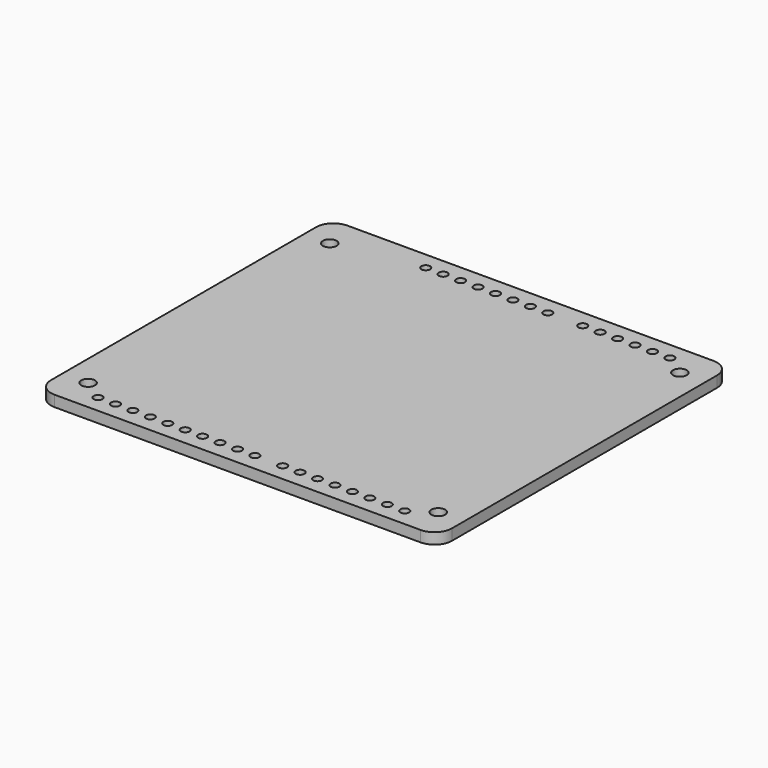
from build123d import *

# Parameters (mm, degrees)
SKETCH309_R      = 1
EXTRUDE165_DEPTH = 2
SKETCH310_R      = 1
EXTRUDE164_DEPTH = 2
SKETCH307_R      = 1
EXTRUDE166_DEPTH = 2
SKETCH308_R      = 1
EXTRUDE163_DEPTH = 2
SKETCH314_R      = 0.635
EXTRUDE161_DEPTH = 2
SKETCH313_R      = 0.635
EXTRUDE159_DEPTH = 2
SKETCH315_R      = 0.635
EXTRUDE160_DEPTH = 2
SKETCH312_R      = 0.635
EXTRUDE162_DEPTH = 2
EXTRUDE_DEPTH    = 1.6


with BuildPart() as extrude165:
    # Sketch309 → Extrude165 (new body)
    with BuildSketch(Plane(origin=(1.17, 48.67, 0), x_dir=(1, 0, 0), z_dir=(0, 0, 1))):
        Circle(SKETCH309_R)
    extrude(amount=EXTRUDE165_DEPTH)


with BuildPart() as extrude164:
    # Sketch310 → Extrude164 (new body)
    with BuildSketch(Plane(origin=(52.17, 48.67, 0), x_dir=(1, 0, 0), z_dir=(0, 0, 1))):
        Circle(SKETCH310_R)
    extrude(amount=EXTRUDE164_DEPTH)


with BuildPart() as extrude166:
    # Sketch307 → Extrude166 (new body)
    with BuildSketch(Plane(origin=(1.17, 4.67, 0), x_dir=(1, 0, 0), z_dir=(0, 0, 1))):
        Circle(SKETCH307_R)
    extrude(amount=EXTRUDE166_DEPTH)


with BuildPart() as fusion042:
    # Sketch308 → Extrude163 (new body)
    with BuildSketch(Plane(origin=(52.17, 4.67, 0), x_dir=(1, 0, 0), z_dir=(0, 0, 1))):
        Circle(SKETCH308_R)
    extrude(amount=EXTRUDE163_DEPTH)

    # Fusion042: union Extrude165, Extrude164, Extrude166
    add(extrude165.part)
    add(extrude164.part)
    add(extrude166.part)


with BuildPart() as extrude161:
    # Sketch314 → Extrude161 (new body)
    with BuildSketch(Plane(origin=(23.6, -47.63, 13), x_dir=(1, 0, 0), z_dir=(0, 0, 1))):
        with Locations((10.16, 50.165)):
            Circle(SKETCH314_R)
        with Locations((7.62, 50.165)):
            Circle(SKETCH314_R)
        with Locations((12.7, 50.165)):
            Circle(SKETCH314_R)
        with Locations((15.24, 50.165)):
            Circle(SKETCH314_R)
        with Locations((17.78, 50.165)):
            Circle(SKETCH314_R)
        with Locations((20.32, 50.165)):
            Circle(SKETCH314_R)
        with Locations((22.86, 50.165)):
            Circle(SKETCH314_R)
        with Locations((25.4, 50.165)):
            Circle(SKETCH314_R)
    extrude(amount=EXTRUDE161_DEPTH)


with BuildPart() as extrude159:
    # Sketch313 → Extrude159 (new body)
    with BuildSketch(Plane(origin=(-3.3, -47.63, 13), x_dir=(1, 0, 0), z_dir=(0, 0, 1))):
        with Locations((10.16, 50.165)):
            Circle(SKETCH313_R)
        with Locations((7.62, 50.165)):
            Circle(SKETCH313_R)
        with Locations((12.7, 50.165)):
            Circle(SKETCH313_R)
        with Locations((15.24, 50.165)):
            Circle(SKETCH313_R)
        with Locations((17.78, 50.165)):
            Circle(SKETCH313_R)
        with Locations((20.32, 50.165)):
            Circle(SKETCH313_R)
        with Locations((22.86, 50.165)):
            Circle(SKETCH313_R)
        with Locations((25.4, 50.165)):
            Circle(SKETCH313_R)
        with Locations((27.94, 50.165)):
            Circle(SKETCH313_R)
        with Locations((30.48, 50.165)):
            Circle(SKETCH313_R)
    extrude(amount=EXTRUDE159_DEPTH)


with BuildPart() as extrude160:
    # Sketch315 → Extrude160 (new body)
    with BuildSketch(Plane(origin=(23.62, 0.63, 13), x_dir=(1, 0, 0), z_dir=(0, 0, 1))):
        with Locations((12.7, 50.165)):
            Circle(SKETCH315_R)
        with Locations((15.24, 50.165)):
            Circle(SKETCH315_R)
        with Locations((17.78, 50.165)):
            Circle(SKETCH315_R)
        with Locations((20.32, 50.165)):
            Circle(SKETCH315_R)
        with Locations((22.86, 50.165)):
            Circle(SKETCH315_R)
        with Locations((25.4, 50.165)):
            Circle(SKETCH315_R)
    extrude(amount=EXTRUDE160_DEPTH)


with BuildPart() as fusion:
    # Sketch312 → Extrude162 (new body)
    with BuildSketch(Plane(origin=(0.75, 0.63, 13), x_dir=(1, 0, 0), z_dir=(0, 0, 1))):
        with Locations((12.7, 50.165)):
            Circle(SKETCH312_R)
        with Locations((15.24, 50.165)):
            Circle(SKETCH312_R)
        with Locations((17.78, 50.165)):
            Circle(SKETCH312_R)
        with Locations((20.32, 50.165)):
            Circle(SKETCH312_R)
        with Locations((22.86, 50.165)):
            Circle(SKETCH312_R)
        with Locations((25.4, 50.165)):
            Circle(SKETCH312_R)
        with Locations((27.94, 50.165)):
            Circle(SKETCH312_R)
        with Locations((30.48, 50.165)):
            Circle(SKETCH312_R)
    extrude(amount=EXTRUDE162_DEPTH)

    # Fusion: union Extrude161, Extrude159, Extrude160
    add(extrude161.part)
    add(extrude159.part)
    add(extrude160.part)


with BuildPart() as fusion_1:
    # Fusion placement: moved
    add(fusion.part.moved(Location((0, 0, -13))))


with BuildPart() as obj1:
    # Sketch311 → Extrude (new body)
    with BuildSketch(Plane.XY):
        with BuildLine():
            Line((0, 53.34), (53.340001, 53.34))
            ThreePointArc((55.88, 50.8), (55.136052, 52.596051), (53.340001, 53.34))
            Line((55.88, 50.8), (55.88, 2.54))
            ThreePointArc((53.340001, 0), (55.136052, 0.743949), (55.88, 2.54))
            Line((0, 0), (53.340001, 0))
            ThreePointArc((-2.54, 2.540001), (-1.796052, 0.743949), (0, 0))
            Line((-2.54, 50.8), (-2.54, 2.540001))
            ThreePointArc((0, 53.34), (-1.796051, 52.596051), (-2.54, 50.8))
        make_face()
    extrude(amount=EXTRUDE_DEPTH)

    # Cut070: cut Fusion
    add(fusion_1.part, mode=Mode.SUBTRACT)

    # Cut071: cut Fusion042
    add(fusion042.part, mode=Mode.SUBTRACT)


solid = obj1.part
